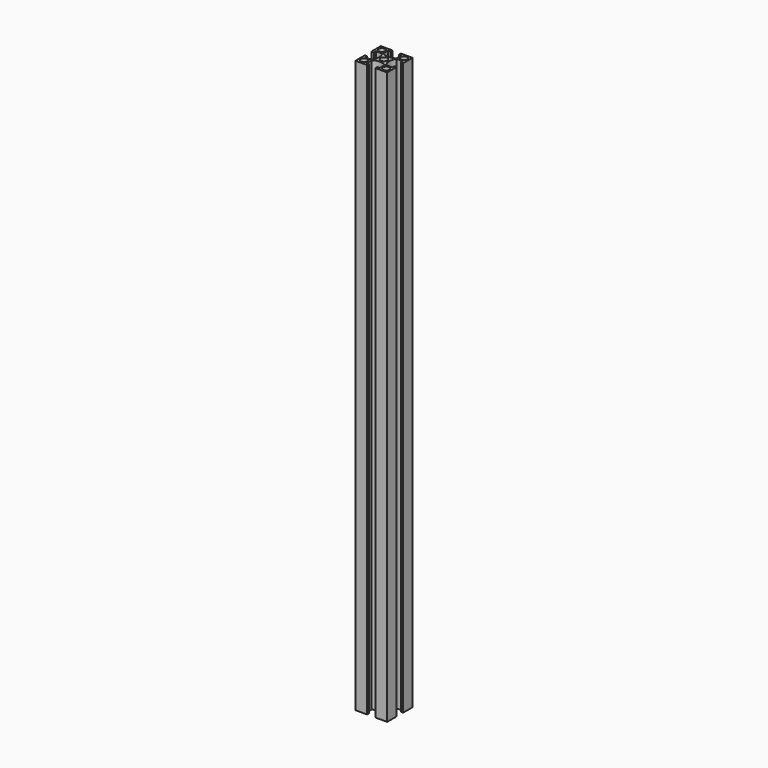
from build123d import *

# Parameters (mm, degrees)
F0_R     = 2
F0_R_2   = 2.15
F1_DEPTH = 360


with BuildPart() as f1:
    # F0 (on Top) → F1 (new body)
    with BuildSketch(Plane.XY):
        with BuildLine():
            Line((-10, 10), (-10, 2.65))
            Line((-10, 2.65), (-8.5, 2.65))
            Line((-8.5, 2.65), (-8.5, 4.15))
            Line((-8.5, 4.15), (-4.552801, 4.15))
            ThreePointArc((-4.552801, 4.15), (-3.3, 0), (-4.552801, -4.15))
            Line((-4.552801, -4.15), (-8.5, -4.15))
            Line((-8.5, -4.15), (-8.5, -2.65))
            Line((-8.5, -2.65), (-10, -2.65))
            Line((-10, -2.65), (-10, -10))
            Line((-10, -10), (-2.65, -10))
            Line((-2.65, -10), (-2.65, -8.5))
            Line((-2.65, -8.5), (-4.15, -8.5))
            Line((-4.15, -8.5), (-4.15, -4.552801))
            ThreePointArc((-4.15, -4.552801), (0, -3.3), (4.15, -4.552801))
            Line((4.15, -4.552801), (4.15, -8.5))
            Line((4.15, -8.5), (2.65, -8.5))
            Line((2.65, -8.5), (2.65, -10))
            Line((2.65, -10), (10, -10))
            Line((10, -10), (10, -2.65))
            Line((10, -2.65), (8.5, -2.65))
            Line((8.5, -2.65), (8.5, -4.15))
            Line((8.5, -4.15), (4.552801, -4.15))
            ThreePointArc((4.552801, -4.15), (3.3, 0), (4.552801, 4.15))
            Line((4.552801, 4.15), (8.5, 4.15))
            Line((8.5, 4.15), (8.5, 2.65))
            Line((8.5, 2.65), (10, 2.65))
            Line((10, 2.65), (10, 10))
            Line((10, 10), (2.65, 10))
            Line((2.65, 10), (2.65, 8.5))
            Line((2.65, 8.5), (4.15, 8.5))
            Line((4.15, 8.5), (4.15, 4.552801))
            ThreePointArc((4.15, 4.552801), (0, 3.3), (-4.15, 4.552801))
            Line((-4.15, 4.552801), (-4.15, 8.5))
            Line((-4.15, 8.5), (-2.65, 8.5))
            Line((-2.65, 8.5), (-2.65, 10))
            Line((-2.65, 10), (-10, 10))
        make_face()
        with Locations((-7, -7)):
            Circle(F0_R, mode=Mode.SUBTRACT)
        with Locations((7, -7)):
            Circle(F0_R, mode=Mode.SUBTRACT)
        with Locations((-7, 7)):
            Circle(F0_R, mode=Mode.SUBTRACT)
        Circle(F0_R_2, mode=Mode.SUBTRACT)
        with Locations((7, 7)):
            Circle(F0_R, mode=Mode.SUBTRACT)
    extrude(amount=F1_DEPTH)


solid = f1.part
